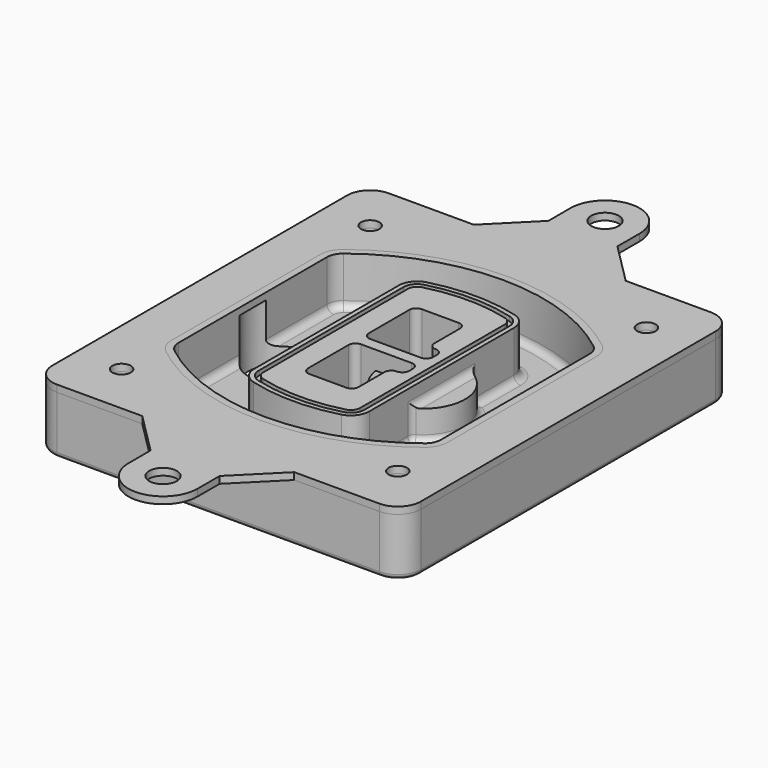
from build123d import *

# Parameters (mm, degrees)
F0_R      = 4
F1_DEPTH  = 25
F2_DEPTH  = 3
F3_DEPTH  = 18
F5_DEPTH  = 21
F6_DEPTH  = 2
F8_DEPTH  = 20
F9_DEPTH  = 16
F10_DEPTH = 25
F7_R      = 6
F7_R_2    = 4
F11_DEPTH = 6
F13_DEPTH = 9
F14_R     = 3
F15_R     = 2
F16_R     = 4
F16_R_2   = 6
F17_DEPTH = 3


with BuildPart() as f1:
    # F0 (on Top) → F1 (new body)
    with BuildSketch(Plane.XY):
        with BuildLine():
            ThreePointArc((-80, -80), (-77.0710678119, -87.0710678119), (-70, -90))
            Line((-70, -90), (70, -90))
            ThreePointArc((70, -90), (77.0710678119, -87.0710678119), (80, -80))
            Line((80, -80), (80, 80))
            ThreePointArc((80, 80), (77.0710678119, 87.0710678119), (70, 90))
            Line((70, 90), (-70, 90))
            ThreePointArc((-70, 90), (-77.0710678119, 87.0710678119), (-80, 80))
            Line((-80, 80), (-80, -80))
        make_face()
        with Locations((-60, -67.5)):
            Circle(F0_R, mode=Mode.SUBTRACT)
        with Locations((60, -67.5)):
            Circle(F0_R, mode=Mode.SUBTRACT)
        with Locations((-60, 67.5)):
            Circle(F0_R, mode=Mode.SUBTRACT)
        with BuildLine():
            ThreePointArc((-64, 40.2934422872), (-62.5820384798, 46.4328484224), (-58.6153846154, 51.3286200352))
            ThreePointArc((-58.6153846154, 51.3286200352), (0, 71.5), (58.6153846154, 51.3286200352))
            ThreePointArc((58.6153846154, 51.3286200352), (62.5820384798, 46.4328484224), (64, 40.2934422872))
            Line((64, 40.2934422872), (64, -40.2934422872))
            ThreePointArc((64, -40.2934422872), (62.5820384798, -46.4328484224), (58.6153846154, -51.3286200352))
            ThreePointArc((58.6153846154, -51.3286200352), (0, -71.5), (-58.6153846154, -51.3286200352))
            ThreePointArc((-58.6153846154, -51.3286200352), (-62.5820384798, -46.4328484224), (-64, -40.2934422872))
            Line((-64, -40.2934422872), (-64, 40.2934422872))
        make_face(mode=Mode.SUBTRACT)
        with Locations((60, 67.5)):
            Circle(F0_R, mode=Mode.SUBTRACT)
        with BuildLine():
            ThreePointArc((58.6153846154, 51.3286200352), (0, 71.5), (-58.6153846154, 51.3286200352))
            ThreePointArc((-58.6153846154, 51.3286200352), (-62.5820384798, 46.4328484224), (-64, 40.2934422872))
            Line((-64, 40.2934422872), (-64, -40.2934422872))
            ThreePointArc((-64, -40.2934422872), (-62.5820384798, -46.4328484224), (-58.6153846154, -51.3286200352))
            ThreePointArc((-58.6153846154, -51.3286200352), (0, -71.5), (58.6153846154, -51.3286200352))
            ThreePointArc((58.6153846154, -51.3286200352), (62.5820384798, -46.4328484224), (64, -40.2934422872))
            Line((64, -40.2934422872), (64, 40.2934422872))
            ThreePointArc((64, 40.2934422872), (62.5820384798, 46.4328484224), (58.6153846154, 51.3286200352))
        make_face()
        with BuildLine():
            Line((-60, -40.2934422872), (-60, 40.2934422872))
            ThreePointArc((-60, 40.2934422872), (-58.9871703427, 44.6787323838), (-56.1538461538, 48.1757121072))
            ThreePointArc((-56.1538461538, 48.1757121072), (0, 67.5), (56.1538461538, 48.1757121072))
            ThreePointArc((56.1538461538, 48.1757121072), (58.9871703427, 44.6787323838), (60, 40.2934422872))
            Line((60, 40.2934422872), (60, -40.2934422872))
            ThreePointArc((60, -40.2934422872), (58.9871703427, -44.6787323838), (56.1538461538, -48.1757121072))
            ThreePointArc((56.1538461538, -48.1757121072), (0, -67.5), (-56.1538461538, -48.1757121072))
            ThreePointArc((-56.1538461538, -48.1757121072), (-58.9871703427, -44.6787323838), (-60, -40.2934422872))
        make_face(mode=Mode.SUBTRACT)
        with BuildLine():
            ThreePointArc((-56.1538461538, 48.1757121072), (-58.9871703427, 44.6787323838), (-60, 40.2934422872))
            Line((-60, 40.2934422872), (-60, -40.2934422872))
            ThreePointArc((-60, -40.2934422872), (-58.9871703427, -44.6787323838), (-56.1538461538, -48.1757121072))
            ThreePointArc((-56.1538461538, -48.1757121072), (0, -67.5), (56.1538461538, -48.1757121072))
            ThreePointArc((56.1538461538, -48.1757121072), (58.9871703427, -44.6787323838), (60, -40.2934422872))
            Line((60, -40.2934422872), (60, 40.2934422872))
            ThreePointArc((60, 40.2934422872), (58.9871703427, 44.6787323838), (56.1538461538, 48.1757121072))
            ThreePointArc((56.1538461538, 48.1757121072), (0, 67.5), (-56.1538461538, 48.1757121072))
        make_face()
        with BuildLine():
            ThreePointArc((54.3076923077, 45.8110311612), (56.2910192399, 43.3631453548), (57, 40.2934422872))
            Line((57, 40.2934422872), (57, -40.2934422872))
            ThreePointArc((57, -40.2934422872), (56.2910192399, -43.3631453548), (54.3076923077, -45.8110311612))
            ThreePointArc((54.3076923077, -45.8110311612), (0, -64.5), (-54.3076923077, -45.8110311612))
            ThreePointArc((-54.3076923077, -45.8110311612), (-56.2910192399, -43.3631453548), (-57, -40.2934422872))
            Line((-57, -40.2934422872), (-57, 40.2934422872))
            ThreePointArc((-57, 40.2934422872), (-56.2910192399, 43.3631453548), (-54.3076923077, 45.8110311612))
            ThreePointArc((-54.3076923077, 45.8110311612), (0, 64.5), (54.3076923077, 45.8110311612))
        make_face(mode=Mode.SUBTRACT)
        with BuildLine():
            Line((57, -40.2934422872), (57, 40.2934422872))
            ThreePointArc((57, 40.2934422872), (56.2910192399, 43.3631453548), (54.3076923077, 45.8110311612))
            ThreePointArc((54.3076923077, 45.8110311612), (0, 64.5), (-54.3076923077, 45.8110311612))
            ThreePointArc((-54.3076923077, 45.8110311612), (-56.2910192399, 43.3631453548), (-57, 40.2934422872))
            Line((-57, 40.2934422872), (-57, -40.2934422872))
            ThreePointArc((-57, -40.2934422872), (-56.2910192399, -43.3631453548), (-54.3076923077, -45.8110311612))
            ThreePointArc((-54.3076923077, -45.8110311612), (0, -64.5), (54.3076923077, -45.8110311612))
            ThreePointArc((54.3076923077, -45.8110311612), (56.2910192399, -43.3631453548), (57, -40.2934422872))
        make_face()
    extrude(amount=-F1_DEPTH)

    # F0 (on Top) → F2 (join)
    with BuildSketch(Plane.XY):
        with BuildLine():
            ThreePointArc((-56.1538461538, 48.1757121072), (-58.9871703427, 44.6787323838), (-60, 40.2934422872))
            Line((-60, 40.2934422872), (-60, -40.2934422872))
            ThreePointArc((-60, -40.2934422872), (-58.9871703427, -44.6787323838), (-56.1538461538, -48.1757121072))
            ThreePointArc((-56.1538461538, -48.1757121072), (0, -67.5), (56.1538461538, -48.1757121072))
            ThreePointArc((56.1538461538, -48.1757121072), (58.9871703427, -44.6787323838), (60, -40.2934422872))
            Line((60, -40.2934422872), (60, 40.2934422872))
            ThreePointArc((60, 40.2934422872), (58.9871703427, 44.6787323838), (56.1538461538, 48.1757121072))
            ThreePointArc((56.1538461538, 48.1757121072), (0, 67.5), (-56.1538461538, 48.1757121072))
        make_face()
        with BuildLine():
            ThreePointArc((54.3076923077, 45.8110311612), (56.2910192399, 43.3631453548), (57, 40.2934422872))
            Line((57, 40.2934422872), (57, -40.2934422872))
            ThreePointArc((57, -40.2934422872), (56.2910192399, -43.3631453548), (54.3076923077, -45.8110311612))
            ThreePointArc((54.3076923077, -45.8110311612), (0, -64.5), (-54.3076923077, -45.8110311612))
            ThreePointArc((-54.3076923077, -45.8110311612), (-56.2910192399, -43.3631453548), (-57, -40.2934422872))
            Line((-57, -40.2934422872), (-57, 40.2934422872))
            ThreePointArc((-57, 40.2934422872), (-56.2910192399, 43.3631453548), (-54.3076923077, 45.8110311612))
            ThreePointArc((-54.3076923077, 45.8110311612), (0, 64.5), (54.3076923077, 45.8110311612))
        make_face(mode=Mode.SUBTRACT)
    extrude(amount=F2_DEPTH)

    # F0 (on Top) → F3 (cut)
    with BuildSketch(Plane.XY):
        with BuildLine():
            Line((57, -40.2934422872), (57, 40.2934422872))
            ThreePointArc((57, 40.2934422872), (56.2910192399, 43.3631453548), (54.3076923077, 45.8110311612))
            ThreePointArc((54.3076923077, 45.8110311612), (0, 64.5), (-54.3076923077, 45.8110311612))
            ThreePointArc((-54.3076923077, 45.8110311612), (-56.2910192399, 43.3631453548), (-57, 40.2934422872))
            Line((-57, 40.2934422872), (-57, -40.2934422872))
            ThreePointArc((-57, -40.2934422872), (-56.2910192399, -43.3631453548), (-54.3076923077, -45.8110311612))
            ThreePointArc((-54.3076923077, -45.8110311612), (0, -64.5), (54.3076923077, -45.8110311612))
            ThreePointArc((54.3076923077, -45.8110311612), (56.2910192399, -43.3631453548), (57, -40.2934422872))
        make_face()
    extrude(amount=-F3_DEPTH, mode=Mode.SUBTRACT)

    # F4 (on face) → F5 (join, through all)
    with BuildSketch(Plane.XY.offset(3)):
        with BuildLine():
            ThreePointArc((-25, -39.2465276821), (-23.3511545998, -44.1109737193), (-19.0842911877, -46.9702398883))
            ThreePointArc((-19.0842911877, -46.9702398883), (0, -49.5), (19.0842911877, -46.9702398883))
            ThreePointArc((19.0842911877, -46.9702398883), (23.3511545998, -44.1109737193), (25, -39.2465276821))
            Line((25, -39.2465276821), (25, 39.2465276821))
            ThreePointArc((25, 39.2465276821), (23.3511545998, 44.1109737193), (19.0842911877, 46.9702398883))
            ThreePointArc((19.0842911877, 46.9702398883), (0, 49.5), (-19.0842911877, 46.9702398883))
            ThreePointArc((-19.0842911877, 46.9702398883), (-23.3511545998, 44.1109737193), (-25, 39.2465276821))
            Line((-25, 39.2465276821), (-25, -39.2465276821))
        make_face()
        with BuildLine():
            ThreePointArc((18.5632183908, 45.0393118368), (21.7633659499, 42.89486221), (23, 39.2465276821))
            Line((23, 39.2465276821), (23, -39.2465276821))
            ThreePointArc((23, -39.2465276821), (21.7633659499, -42.89486221), (18.5632183908, -45.0393118368))
            ThreePointArc((18.5632183908, -45.0393118368), (0, -47.5), (-18.5632183908, -45.0393118368))
            ThreePointArc((-18.5632183908, -45.0393118368), (-21.7633659499, -42.89486221), (-23, -39.2465276821))
            Line((-23, -39.2465276821), (-23, 39.2465276821))
            ThreePointArc((-23, 39.2465276821), (-21.7633659499, 42.89486221), (-18.5632183908, 45.0393118368))
            ThreePointArc((-18.5632183908, 45.0393118368), (0, 47.5), (18.5632183908, 45.0393118368))
        make_face(mode=Mode.SUBTRACT)
        with BuildLine():
            Line((23, -39.2465276821), (23, 39.2465276821))
            ThreePointArc((23, 39.2465276821), (21.7633659499, 42.89486221), (18.5632183908, 45.0393118368))
            ThreePointArc((18.5632183908, 45.0393118368), (0, 47.5), (-18.5632183908, 45.0393118368))
            ThreePointArc((-18.5632183908, 45.0393118368), (-21.7633659499, 42.89486221), (-23, 39.2465276821))
            Line((-23, 39.2465276821), (-23, -39.2465276821))
            ThreePointArc((-23, -39.2465276821), (-21.7633659499, -42.89486221), (-18.5632183908, -45.0393118368))
            ThreePointArc((-18.5632183908, -45.0393118368), (0, -47.5), (18.5632183908, -45.0393118368))
            ThreePointArc((18.5632183908, -45.0393118368), (21.7633659499, -42.89486221), (23, -39.2465276821))
        make_face()
        with BuildLine():
            ThreePointArc((18.0421455939, 43.1083837852), (20.1755772999, 41.6787507007), (21, 39.2465276821))
            Line((21, 39.2465276821), (21, -39.2465276821))
            ThreePointArc((21, -39.2465276821), (20.1755772999, -41.6787507007), (18.0421455939, -43.1083837852))
            ThreePointArc((18.0421455939, -43.1083837852), (0, -45.5), (-18.0421455939, -43.1083837852))
            ThreePointArc((-18.0421455939, -43.1083837852), (-20.1755772999, -41.6787507007), (-21, -39.2465276821))
            Line((-21, -39.2465276821), (-21, 39.2465276821))
            ThreePointArc((-21, 39.2465276821), (-20.1755772999, 41.6787507007), (-18.0421455939, 43.1083837852))
            ThreePointArc((-18.0421455939, 43.1083837852), (0, 45.5), (18.0421455939, 43.1083837852))
        make_face(mode=Mode.SUBTRACT)
        with BuildLine():
            Line((21, -39.2465276821), (21, 39.2465276821))
            ThreePointArc((21, 39.2465276821), (20.1755772999, 41.6787507007), (18.0421455939, 43.1083837852))
            ThreePointArc((18.0421455939, 43.1083837852), (0, 45.5), (-18.0421455939, 43.1083837852))
            ThreePointArc((-18.0421455939, 43.1083837852), (-20.1755772999, 41.6787507007), (-21, 39.2465276821))
            Line((-21, 39.2465276821), (-21, -39.2465276821))
            ThreePointArc((-21, -39.2465276821), (-20.1755772999, -41.6787507007), (-18.0421455939, -43.1083837852))
            ThreePointArc((-18.0421455939, -43.1083837852), (0, -45.5), (18.0421455939, -43.1083837852))
            ThreePointArc((18.0421455939, -43.1083837852), (20.1755772999, -41.6787507007), (21, -39.2465276821))
        make_face()
        with BuildLine():
            Line((-8, -2.5), (14, -2.5))
            ThreePointArc((14, -2.5), (16.1213203436, -3.3786796564), (17, -5.5))
            Line((17, -5.5), (17, -7.5))
            ThreePointArc((17, -7.5), (16.1213203436, -9.6213203436), (14, -10.5))
            ThreePointArc((14, -10.5), (11.8786796564, -11.3786796564), (11, -13.5))
            Line((11, -13.5), (11, -27.5))
            ThreePointArc((11, -27.5), (10.1213203436, -29.6213203436), (8, -30.5))
            Line((8, -30.5), (-8, -30.5))
            ThreePointArc((-8, -30.5), (-10.1213203436, -29.6213203436), (-11, -27.5))
            Line((-11, -27.5), (-11, -5.5))
            ThreePointArc((-11, -5.5), (-10.1213203436, -3.3786796564), (-8, -2.5))
        make_face(mode=Mode.SUBTRACT)
        with BuildLine():
            ThreePointArc((-8, 2.5), (-10.1213203436, 3.3786796564), (-11, 5.5))
            Line((-11, 5.5), (-11, 27.5))
            ThreePointArc((-11, 27.5), (-10.1213203436, 29.6213203436), (-8, 30.5))
            Line((-8, 30.5), (8, 30.5))
            ThreePointArc((8, 30.5), (10.1213203436, 29.6213203436), (11, 27.5))
            Line((11, 27.5), (11, 13.5))
            ThreePointArc((11, 13.5), (11.8786796564, 11.3786796564), (14, 10.5))
            ThreePointArc((14, 10.5), (16.1213203436, 9.6213203436), (17, 7.5))
            Line((17, 7.5), (17, 5.5))
            ThreePointArc((17, 5.5), (16.1213203436, 3.3786796564), (14, 2.5))
            Line((14, 2.5), (-8, 2.5))
        make_face(mode=Mode.SUBTRACT)
    extrude(amount=-F5_DEPTH)

    # F4 (on face) → F6 (cut)
    with BuildSketch(Plane.XY.offset(3)):
        with BuildLine():
            Line((23, -39.2465276821), (23, 39.2465276821))
            ThreePointArc((23, 39.2465276821), (21.7633659499, 42.89486221), (18.5632183908, 45.0393118368))
            ThreePointArc((18.5632183908, 45.0393118368), (0, 47.5), (-18.5632183908, 45.0393118368))
            ThreePointArc((-18.5632183908, 45.0393118368), (-21.7633659499, 42.89486221), (-23, 39.2465276821))
            Line((-23, 39.2465276821), (-23, -39.2465276821))
            ThreePointArc((-23, -39.2465276821), (-21.7633659499, -42.89486221), (-18.5632183908, -45.0393118368))
            ThreePointArc((-18.5632183908, -45.0393118368), (0, -47.5), (18.5632183908, -45.0393118368))
            ThreePointArc((18.5632183908, -45.0393118368), (21.7633659499, -42.89486221), (23, -39.2465276821))
        make_face()
        with BuildLine():
            ThreePointArc((18.0421455939, 43.1083837852), (20.1755772999, 41.6787507007), (21, 39.2465276821))
            Line((21, 39.2465276821), (21, -39.2465276821))
            ThreePointArc((21, -39.2465276821), (20.1755772999, -41.6787507007), (18.0421455939, -43.1083837852))
            ThreePointArc((18.0421455939, -43.1083837852), (0, -45.5), (-18.0421455939, -43.1083837852))
            ThreePointArc((-18.0421455939, -43.1083837852), (-20.1755772999, -41.6787507007), (-21, -39.2465276821))
            Line((-21, -39.2465276821), (-21, 39.2465276821))
            ThreePointArc((-21, 39.2465276821), (-20.1755772999, 41.6787507007), (-18.0421455939, 43.1083837852))
            ThreePointArc((-18.0421455939, 43.1083837852), (0, 45.5), (18.0421455939, 43.1083837852))
        make_face(mode=Mode.SUBTRACT)
    extrude(amount=-F6_DEPTH, mode=Mode.SUBTRACT)

    # F7 (on face) → F8 (join)
    with BuildSketch(Plane(origin=(0, 0, -25), x_dir=(1, 0, 0), z_dir=(0, 0, -1))):
        with BuildLine():
            ThreePointArc((3.28842436, 0), (16.7567035675, 13.4682792075), (30.224982775, 0))
            Line((30.224982775, 0), (35.224982775, 0))
            ThreePointArc((35.224982775, 0), (16.7567035675, 18.4682792075), (-1.71157564, 0))
            Line((-1.71157564, 0), (3.28842436, 0))
        make_face()
        with BuildLine():
            Line((3.28842436, 0), (30.224982775, 0))
            ThreePointArc((30.224982775, 0), (16.7567035675, 13.4682792075), (3.28842436, 0))
        make_face()
        with BuildLine():
            ThreePointArc((3.28842436, 0), (16.7567035675, -13.4682792075), (30.224982775, 0))
            Line((30.224982775, 0), (3.28842436, 0))
        make_face()
        with BuildLine():
            Line((35.224982775, 0), (30.224982775, 0))
            ThreePointArc((30.224982775, 0), (16.7567035675, -13.4682792075), (3.28842436, 0))
            Line((3.28842436, 0), (-1.71157564, 0))
            ThreePointArc((-1.71157564, 0), (16.7567035675, -18.4682792075), (35.224982775, 0))
        make_face()
    extrude(amount=-F8_DEPTH)

    # F7 (on face) → F9 (cut)
    with BuildSketch(Plane(origin=(0, 0, -25), x_dir=(1, 0, 0), z_dir=(0, 0, -1))):
        with BuildLine():
            Line((3.28842436, 0), (30.224982775, 0))
            ThreePointArc((30.224982775, 0), (16.7567035675, 13.4682792075), (3.28842436, 0))
        make_face()
        with BuildLine():
            ThreePointArc((3.28842436, 0), (16.7567035675, -13.4682792075), (30.224982775, 0))
            Line((30.224982775, 0), (3.28842436, 0))
        make_face()
    extrude(amount=-F9_DEPTH, mode=Mode.SUBTRACT)

    # F7 (on face) → F10 (cut)
    with BuildSketch(Plane(origin=(0, 0, -25), x_dir=(1, 0, 0), z_dir=(0, 0, -1))):
        with BuildLine():
            Line((-59.0318229325, 0), (-32.0952645175, 0))
            ThreePointArc((-32.0952645175, 0), (-45.563543725, 13.4682792075), (-59.0318229325, 0))
        make_face()
        with BuildLine():
            ThreePointArc((-59.0318229325, 0), (-45.563543725, -13.4682792075), (-32.0952645175, 0))
            Line((-32.0952645175, 0), (-59.0318229325, 0))
        make_face()
    extrude(amount=-F10_DEPTH, mode=Mode.SUBTRACT)

    # F7 (on face) → F11 (cut)
    with BuildSketch(Plane(origin=(0, 0, -25), x_dir=(1, 0, 0), z_dir=(0, 0, -1))):
        with Locations((60, -67.5)):
            Circle(F7_R)
        with Locations((60, -67.5)):
            Circle(F7_R_2, mode=Mode.SUBTRACT)
        with Locations((60, -67.5)):
            Circle(F7_R)
        with Locations((60, -67.5)):
            Circle(F7_R_2, mode=Mode.SUBTRACT)
        with Locations((-60, -67.5)):
            Circle(F7_R)
        with Locations((-60, -67.5)):
            Circle(F7_R_2, mode=Mode.SUBTRACT)
        with Locations((-60, -67.5)):
            Circle(F7_R)
        with Locations((-60, -67.5)):
            Circle(F7_R_2, mode=Mode.SUBTRACT)
        with Locations((-60, 67.5)):
            Circle(F7_R)
        with Locations((-60, 67.5)):
            Circle(F7_R_2, mode=Mode.SUBTRACT)
        with Locations((-60, 67.5)):
            Circle(F7_R)
        with Locations((-60, 67.5)):
            Circle(F7_R_2, mode=Mode.SUBTRACT)
        with Locations((60, 67.5)):
            Circle(F7_R)
        with Locations((60, 67.5)):
            Circle(F7_R_2, mode=Mode.SUBTRACT)
        with Locations((60, 67.5)):
            Circle(F7_R)
        with Locations((60, 67.5)):
            Circle(F7_R_2, mode=Mode.SUBTRACT)
    extrude(amount=-F11_DEPTH, mode=Mode.SUBTRACT)

    # F12 (on face) → F13 (cut, through all)
    with BuildSketch(Plane(origin=(0, 0, -9), x_dir=(1, 0, 0), z_dir=(0, 0, -1))):
        with BuildLine():
            Line((11, 13.5), (11, 17.5481537753))
            ThreePointArc((11, 17.5481537753), (2.5696536419, 11.8239143813), (-1.5415842455, 2.5))
            Line((-1.5415842455, 2.5), (3.5224848595, 2.5))
            ThreePointArc((3.5224848595, 2.5), (6.1857188154, 8.3455872281), (11.2536447004, 12.2927168648))
            ThreePointArc((11.2536447004, 12.2927168648), (11.0640958889, 12.8831798879), (11, 13.5))
        make_face()
        with BuildLine():
            ThreePointArc((11.2536447004, -12.2927168648), (6.1857188154, -8.3455872281), (3.5224848595, -2.5))
            Line((3.5224848595, -2.5), (-1.5415842455, -2.5))
            ThreePointArc((-1.5415842455, -2.5), (2.5696536419, -11.8239143813), (11, -17.5481537753))
            Line((11, -17.5481537753), (11, -13.5))
            ThreePointArc((11, -13.5), (11.0640958889, -12.8831798879), (11.2536447004, -12.2927168648))
        make_face()
        with BuildLine():
            ThreePointArc((11.2536447004, 12.2927168648), (6.1857188154, 8.3455872281), (3.5224848595, 2.5))
            Line((3.5224848595, 2.5), (14, 2.5))
            ThreePointArc((14, 2.5), (16.1213203436, 3.3786796564), (17, 5.5))
            Line((17, 5.5), (17, 7.5))
            ThreePointArc((17, 7.5), (16.1213203436, 9.6213203436), (14, 10.5))
            ThreePointArc((14, 10.5), (12.3601599782, 10.9878446101), (11.2536447004, 12.2927168648))
        make_face()
        with BuildLine():
            Line((14, -2.5), (3.5224848595, -2.5))
            ThreePointArc((3.5224848595, -2.5), (6.1857188154, -8.3455872281), (11.2536447004, -12.2927168648))
            ThreePointArc((11.2536447004, -12.2927168648), (12.3601599782, -10.9878446101), (14, -10.5))
            ThreePointArc((14, -10.5), (16.1213203436, -9.6213203436), (17, -7.5))
            Line((17, -7.5), (17, -5.5))
            ThreePointArc((17, -5.5), (16.1213203436, -3.3786796564), (14, -2.5))
        make_face()
    extrude(amount=F13_DEPTH, mode=Mode.SUBTRACT)

    # F14
    f14_edges = [f1.edges().sort_by_distance(p)[0] for p in [
        (-57, -23.703476, -18),
        (-57, 23.703476, -18),
        (25, 0, -5),
        (25, 16.526506, -11.5),
        (25, -16.526506, -11.5),
        (25, -27.886517, -18),
        (35.224983, 0, -18),
    ]]
    fillet(f14_edges, radius=F14_R)

    # F15
    f15_edges = [f1.edges().sort_by_distance(p)[0] for p in [
        (0, -90, -25),
    ]]
    fillet(f15_edges, radius=F15_R)


with BuildPart() as f17:
    # F16 (on face) → F17 (new body, through all)
    with BuildSketch(Plane.XY.offset(3)):
        with BuildLine():
            Line((-33, 90), (-70, 90))
            ThreePointArc((-70, 90), (-77.0710678119, 87.0710678119), (-80, 80))
            Line((-80, 80), (-80, -80))
            ThreePointArc((-80, -80), (-77.0710678119, -87.0710678119), (-70, -90))
            Line((-70, -90), (-33, -90))
            Line((-33, -90), (33, -90))
            Line((33, -90), (70, -90))
            ThreePointArc((70, -90), (77.0710678119, -87.0710678119), (80, -80))
            Line((80, -80), (80, 80))
            ThreePointArc((80, 80), (77.0710678119, 87.0710678119), (70, 90))
            Line((70, 90), (33, 90))
            Line((33, 90), (-33, 90))
        make_face()
        with Locations((-60, -67.5)):
            Circle(F16_R, mode=Mode.SUBTRACT)
        with Locations((60, -67.5)):
            Circle(F16_R, mode=Mode.SUBTRACT)
        with Locations((-60, 67.5)):
            Circle(F16_R, mode=Mode.SUBTRACT)
        with BuildLine():
            ThreePointArc((56.1538461538, -48.1757121072), (0, -67.5), (-56.1538461538, -48.1757121072))
            ThreePointArc((-56.1538461538, -48.1757121072), (-58.9871703427, -44.6787323838), (-60, -40.2934422872))
            Line((-60, -40.2934422872), (-60, 40.2934422872))
            ThreePointArc((-60, 40.2934422872), (-58.9871703427, 44.6787323838), (-56.1538461538, 48.1757121072))
            ThreePointArc((-56.1538461538, 48.1757121072), (0, 67.5), (56.1538461538, 48.1757121072))
            ThreePointArc((56.1538461538, 48.1757121072), (58.9871703427, 44.6787323838), (60, 40.2934422872))
            Line((60, 40.2934422872), (60, -40.2934422872))
            ThreePointArc((60, -40.2934422872), (58.9871703427, -44.6787323838), (56.1538461538, -48.1757121072))
        make_face(mode=Mode.SUBTRACT)
        with Locations((60, 67.5)):
            Circle(F16_R, mode=Mode.SUBTRACT)
        with BuildLine():
            Line((-15, 108), (-33, 90))
            Line((-33, 90), (33, 90))
            Line((33, 90), (15, 108))
            Line((15, 108), (15, 120))
            ThreePointArc((15, 120), (0, 135), (-15, 120))
            Line((-15, 120), (-15, 108))
        make_face()
        with Locations((0, 120)):
            Circle(F16_R_2, mode=Mode.SUBTRACT)
        with BuildLine():
            Line((33, -90), (-33, -90))
            Line((-33, -90), (-15, -108))
            Line((-15, -108), (-15, -120))
            ThreePointArc((-15, -120), (0, -135), (15, -120))
            Line((15, -120), (15, -108))
            Line((15, -108), (33, -90))
        make_face()
        with Locations((0, -120)):
            Circle(F16_R_2, mode=Mode.SUBTRACT)
    extrude(amount=-F17_DEPTH)


solid = Compound([f1.part, f17.part])
